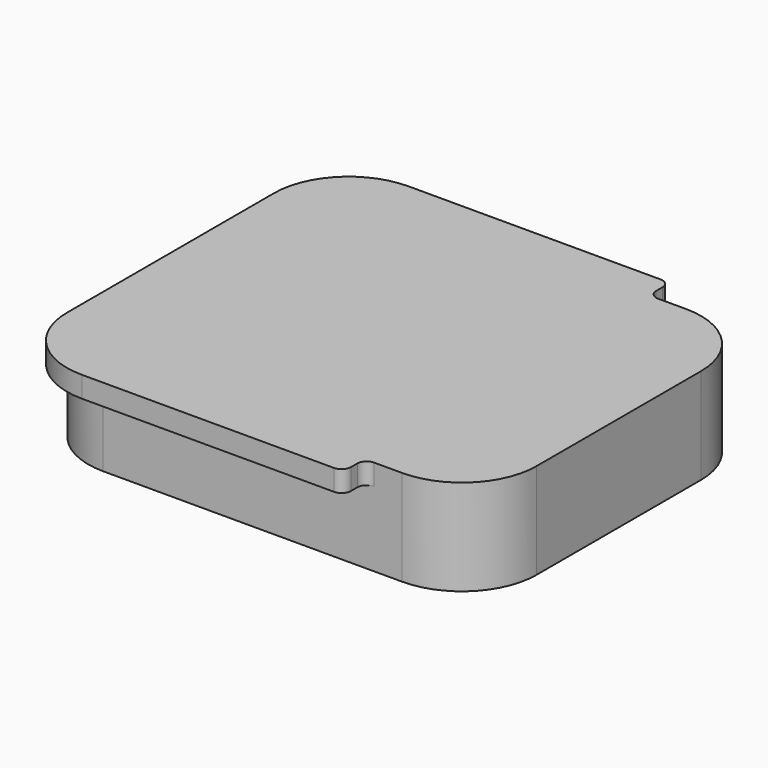
from build123d import *

# Parameters (mm, degrees)
F1_DEPTH = 10.25
F3_DEPTH = 2.25
F4_R     = 1
F5_T     = -0.9


with BuildPart() as f1:
    # F0 (on Top) → F1 (new body)
    with BuildSketch(Plane.XY):
        with BuildLine():
            Line((16, 19), (-16, 19))
            ThreePointArc((-16, 19), (-21.6568542495, 16.6568542495), (-24, 11))
            Line((-24, 11), (-24, -11))
            ThreePointArc((-24, -11), (-21.6568542495, -16.6568542495), (-16, -19))
            Line((-16, -19), (16, -19))
            ThreePointArc((16, -19), (21.6568542495, -16.6568542495), (24, -11))
            Line((24, -11), (24, 11))
            ThreePointArc((24, 11), (21.6568542495, 16.6568542495), (16, 19))
        make_face()
    extrude(amount=F1_DEPTH)

    # F2 (on face) → F3 (join)
    with BuildSketch(Plane.XY.offset(10.25)):
        with BuildLine():
            Line((12, -21.85), (12, -19))
            Line((12, -19), (-16, -19))
            ThreePointArc((-16, -19), (-21.6568542495, -16.6568542495), (-24, -11))
            Line((-24, -11), (-24, -13.85))
            ThreePointArc((-24, -13.85), (-21.6568542495, -19.5068542495), (-16, -21.85))
            Line((-16, -21.85), (12, -21.85))
        make_face()
        with BuildLine():
            Line((12, 21.85), (-16, 21.85))
            ThreePointArc((-16, 21.85), (-21.6568542495, 19.5068542495), (-24, 13.85))
            Line((-24, 13.85), (-24, 11))
            ThreePointArc((-24, 11), (-21.6568542495, 16.6568542495), (-16, 19))
            Line((-16, 19), (12, 19))
            Line((12, 19), (12, 21.85))
        make_face()
    extrude(amount=-F3_DEPTH)

    # F4
    f4_edges = [f1.edges().sort_by_distance(p)[0] for p in [
        (12, -21.85, 9.125),
        (12, 21.85, 9.125),
        (12, 19, 9.125),
        (12, -19, 9.125),
    ]]
    fillet(f4_edges, radius=F4_R)

    # F5
    f5_openings = [f1.faces().sort_by_distance(p)[0] for p in [
        (0, 0, 0),
    ]]
    offset(amount=F5_T, openings=f5_openings, kind=Kind.INTERSECTION)


solid = f1.part
